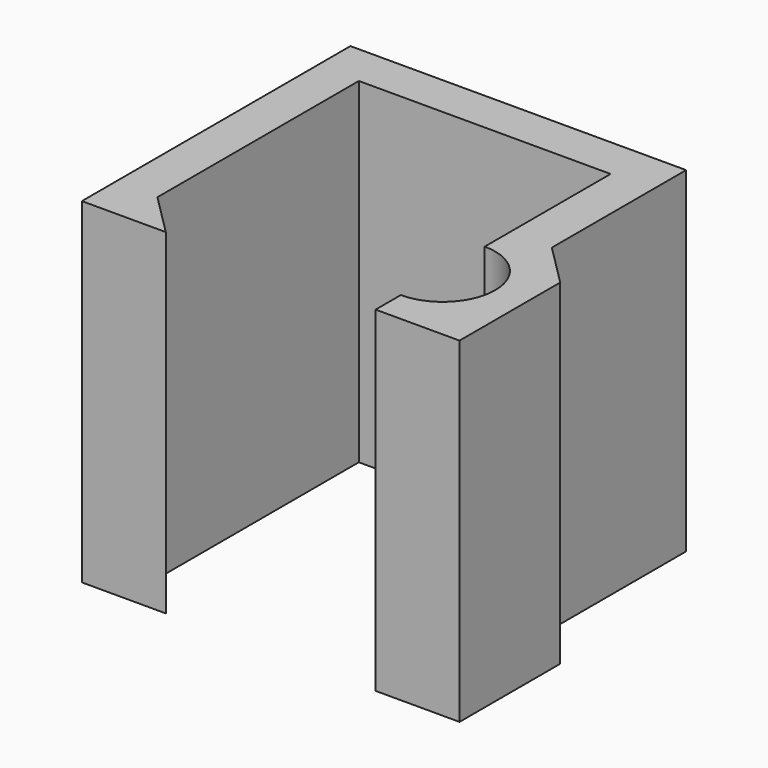
from build123d import *

# Parameters (mm, degrees)
F1_DEPTH = 8
F2_D     = 2.5


with BuildPart() as f1:
    # F0 (on Top) → F1 (new body)
    with BuildSketch(Plane.XY):
        Polygon((-2.5, -3), (-2.5, 3), (3.5, 3), (3.5, -4), (4.5, -4), (4.5, 0), (4.5, 4), (-3.5, 4), (-3.5, -4), (-2.5, -4), align=None)
        Polygon((4.5, 0), (4.5, -4), (5.5, -4), (5.5, -1), align=None)
        Polygon((-1.5, -4), (-2.5, -3), (-2.5, -4), align=None)
    extrude(amount=F1_DEPTH)

    # F2 (through all)
    with Locations(Plane(origin=(0, 0, 0), x_dir=(1, 0, 0), z_dir=(0, 0, -1))):
        with Locations((3.5, 2)):
            Hole(F2_D / 2)


solid = f1.part
